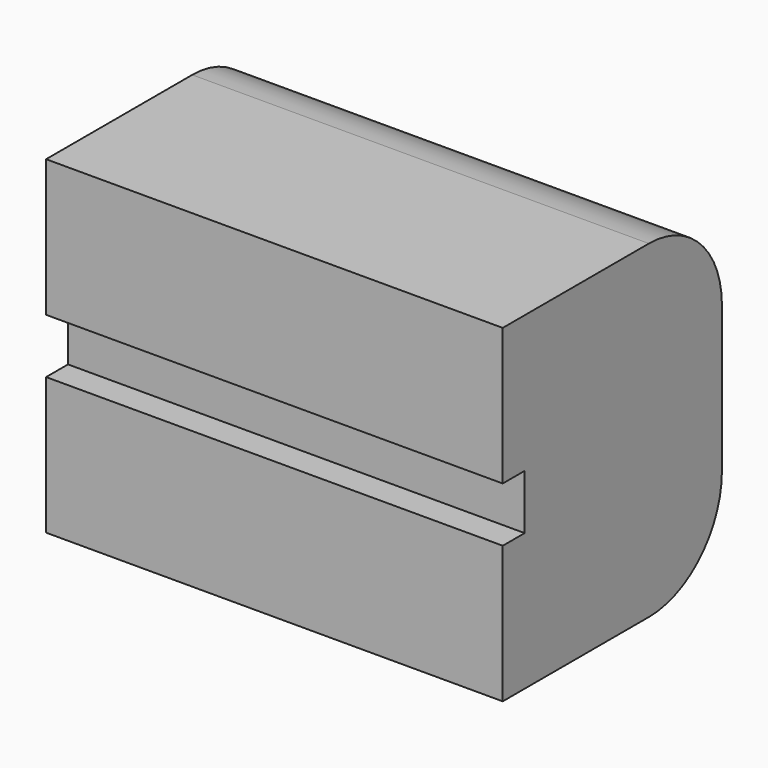
from build123d import *

# Parameters (mm, degrees)
F0_W     = 50
F0_H     = 36
F1_DEPTH = 30
F4_D     = 10
F4_DEPTH = 20
F4_START = 10
F4_TIP   = 3.0043030951
F7_D     = 10
F7_DEPTH = 20
F7_START = 10
F7_TIP   = 3.0043030951
F8_W     = 50
F8_H     = 6
F9_DEPTH = 3
F10_R    = 10


with BuildPart() as f1:
    # F0 (on Front) → F1 (new body)
    with BuildSketch(Plane.XZ):
        Rectangle(F0_W, F0_H)
    extrude(amount=F1_DEPTH)

    # F4
    # its depths count from where the whole tool has entered the part; down to there all is cleared
    with Locations(Plane(origin=(-12.5, 12.5, 0), x_dir=(-0.7071067812, -0.7071067812, 0), z_dir=(-0.7071067812, 0.7071067812, 0)).offset(-F4_START)):
        with Locations((12.6776695297, 0)):
            Hole(F4_D / 2, depth=F4_DEPTH)
            with Locations((0, 0, -(F4_DEPTH + F4_TIP / 2))):  # 118° drill point
                Cone(0, F4_D / 2, F4_TIP, mode=Mode.SUBTRACT)

    # F7
    # its depths count from where the whole tool has entered the part; down to there all is cleared
    with Locations(Plane(origin=(12.5, 12.5, 0), x_dir=(-0.7071067812, 0.7071067812, 0), z_dir=(0.7071067812, 0.7071067812, 0)).offset(-F7_START)):
        with Locations((-12.6776695297, 0)):
            Hole(F7_D / 2, depth=F7_DEPTH)
            with Locations((0, 0, -(F7_DEPTH + F7_TIP / 2))):  # 118° drill point
                Cone(0, F7_D / 2, F7_TIP, mode=Mode.SUBTRACT)

    # F8 (on face) → F9 (cut)
    with BuildSketch(Plane.XZ.offset(30)):
        Rectangle(F8_W, F8_H)
    extrude(amount=-F9_DEPTH, mode=Mode.SUBTRACT)

    # F10
    f10_edges = [f1.edges().sort_by_distance(p)[0] for p in [
        (0, 0, -18),
        (0, 0, 18),
    ]]
    fillet(f10_edges, radius=F10_R)


solid = f1.part
